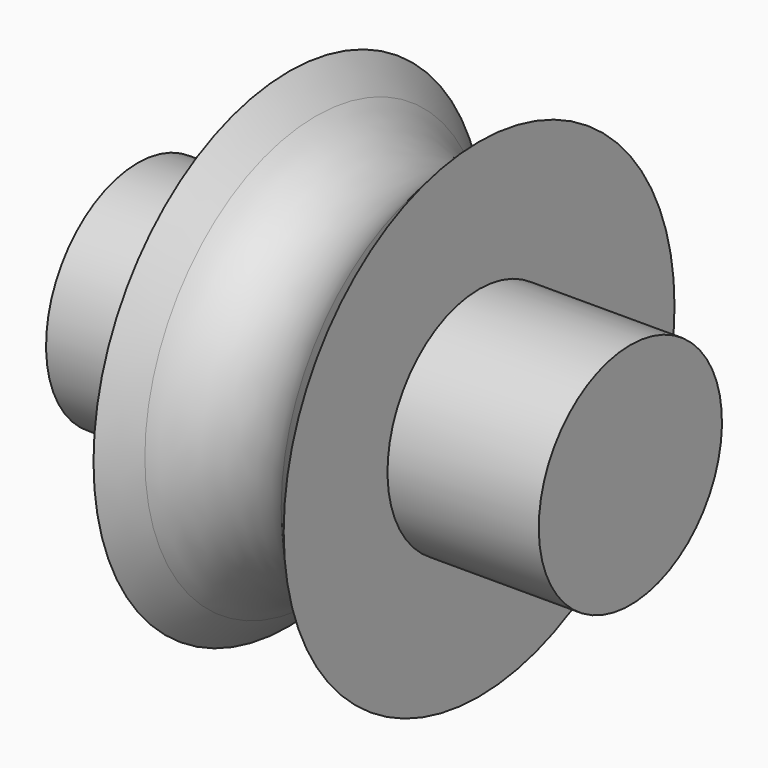
from build123d import *


with BuildPart() as f1:
    # F0 (on Front) → F1 (revolve)
    with BuildSketch(Plane.XZ):
        with BuildLine():
            Line((25.6159, 0), (25.6159, 11.90625))
            Line((25.6159, 11.90625), (9.887509, 11.90625))
            Line((9.887509, 11.90625), (9.887509, 25.4))
            Line((9.887509, 25.4), (7.086038, 22.225))
            ThreePointArc((7.086038, 22.225), (0, 19.027293), (-7.086038, 22.225))
            Line((-7.086038, 22.225), (-9.887509, 25.4))
            Line((-9.887509, 25.4), (-9.887509, 11.90625))
            Line((-9.887509, 11.90625), (-25.6159, 11.90625))
            Line((-25.6159, 11.90625), (-25.6159, 0))
            Line((-25.6159, 0), (25.6159, 0))
        make_face()
    revolve(axis=Axis((0, 0, 0), (1, 0, 0)))


solid = f1.part
